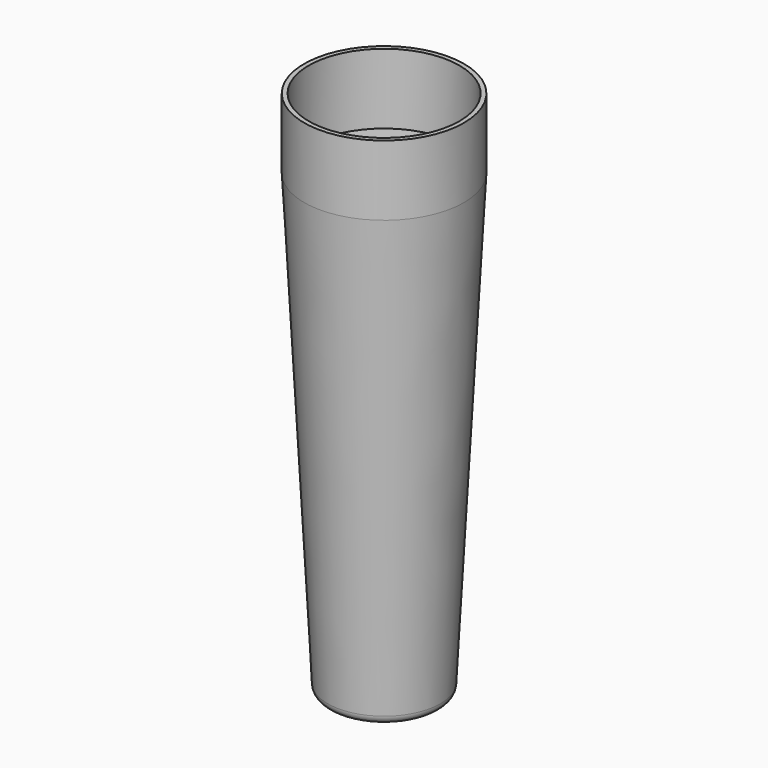
from build123d import *

# Parameters (mm, degrees)
F0_R     = 17.65
F0_R_2   = 16.65
F1_DEPTH = 15.5
F2_DEPTH = 101
F2_TAPER = 3
F3_R     = 2
F4_D     = 8
F4_DEPTH = 90
F4_TIP   = 2.4034424761


with BuildPart() as f1:
    # F0 (on Top) → F1 (new body)
    with BuildSketch(Plane.XY):
        Circle(F0_R)
        Circle(F0_R_2, mode=Mode.SUBTRACT)
    extrude(amount=F1_DEPTH)

    # F0 (on Top) → F2 (join)
    with BuildSketch(Plane.XY):
        Circle(F0_R)
        Circle(F0_R_2, mode=Mode.SUBTRACT)
        Circle(F0_R_2)
    extrude(amount=-F2_DEPTH, taper=F2_TAPER)

    # F3
    f3_edges = [f1.edges().sort_by_distance(p)[0] for p in [
        (-12.356814, 0, -101),
    ]]
    fillet(f3_edges, radius=F3_R)

    # F4
    with Locations(Plane.XY):
        with Locations((0, 0)):
            Hole(F4_D / 2, depth=F4_DEPTH)
            with Locations((0, 0, -(F4_DEPTH + F4_TIP / 2))):  # 118° drill point
                Cone(0, F4_D / 2, F4_TIP, mode=Mode.SUBTRACT)


solid = f1.part
